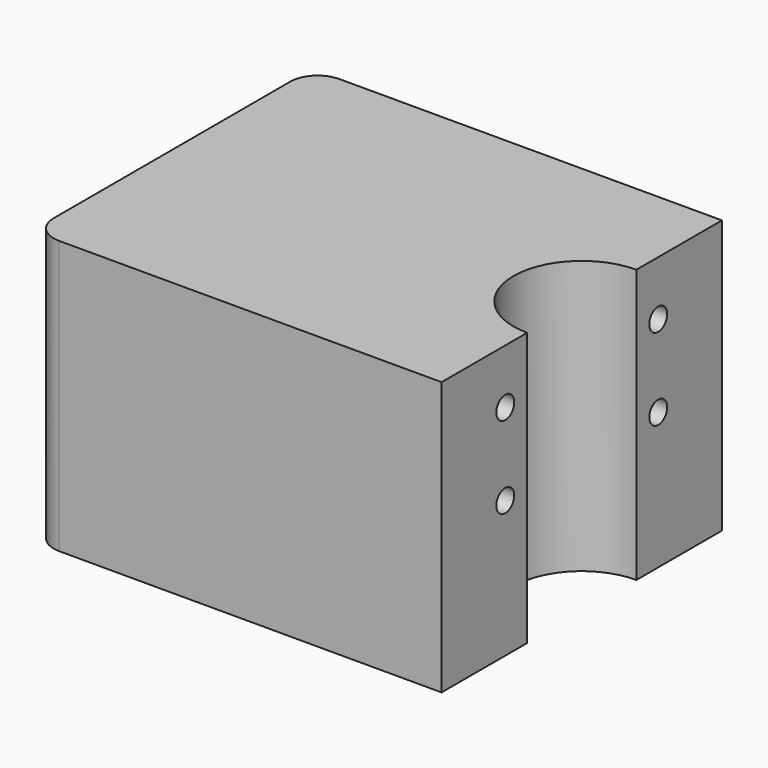
from build123d import *

# Parameters (mm, degrees)
F1_DEPTH       = 25.4
F3_D           = 2.0828
F3_CBORE_D     = 6.858
F3_CBORE_DEPTH = 4.1656


with BuildPart() as f1:
    # F0 (on Top) → F1 (new body)
    with BuildSketch(Plane.XY):
        with BuildLine():
            Line((-16.51, -16.29156), (19.05, -16.29156))
            Line((19.05, -16.29156), (19.05, -6.35))
            ThreePointArc((19.05, -6.35), (12.7, 0), (19.05, 6.35))
            Line((19.05, 6.35), (19.05, 16.29156))
            Line((19.05, 16.29156), (-16.51, 16.29156))
            ThreePointArc((-16.51, 16.29156), (-18.306051, 15.547611), (-19.05, 13.75156))
            Line((-19.05, 13.75156), (-19.05, -13.75156))
            ThreePointArc((-19.05, -13.75156), (-18.306051, -15.547611), (-16.51, -16.29156))
        make_face()
    extrude(amount=F1_DEPTH)

    # F3 (through all)
    with Locations(Plane(origin=(-19.05, 0, 0), x_dir=(0, -1, 0), z_dir=(-1, 0, 0))):
        with Locations((-8.89, 20.32), (-8.89, 12.7), (8.89, 20.32), (8.89, 12.7)):
            CounterBoreHole(F3_D / 2, F3_CBORE_D / 2, F3_CBORE_DEPTH)


solid = f1.part
